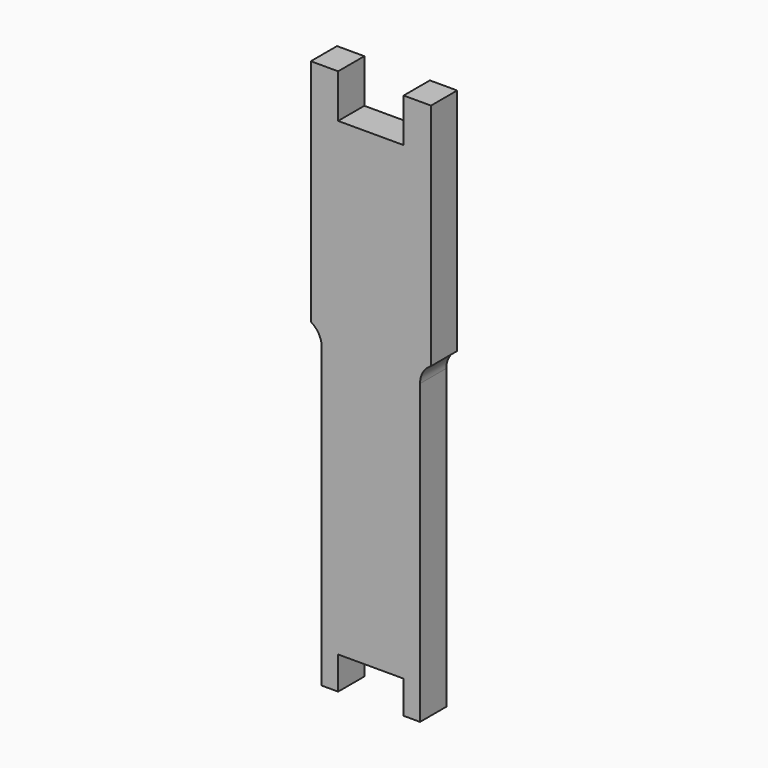
from build123d import *

# Parameters (mm, degrees)
F1_DEPTH = 9.525


with BuildPart() as f1:
    # F0 (on Front) → F1 (new body)
    with BuildSketch(Plane.XZ):
        with BuildLine():
            Line((-9.525, 146.05), (-9.525, 158.75))
            Line((-9.525, 158.75), (-17.4625, 158.75))
            Line((-17.4625, 158.75), (-17.4625, 92.075))
            ThreePointArc((-17.4625, 92.075), (-15.138239, 89.750739), (-14.2875, 86.575739))
            Line((-14.2875, 86.575739), (-14.2875, 0))
            Line((-14.2875, 0), (-9.525, 0))
            Line((-9.525, 0), (-9.525, 9.525))
            Line((-9.525, 9.525), (0, 9.525))
            Line((0, 9.525), (0, 146.05))
            Line((0, 146.05), (-9.525, 146.05))
        make_face()
    extrude(amount=F1_DEPTH)

    # F2: F1 across plane


with BuildPart() as f1_1:
    add(f1.part)
    add(f1.part.mirror(Plane.YZ))


solid = f1_1.part
